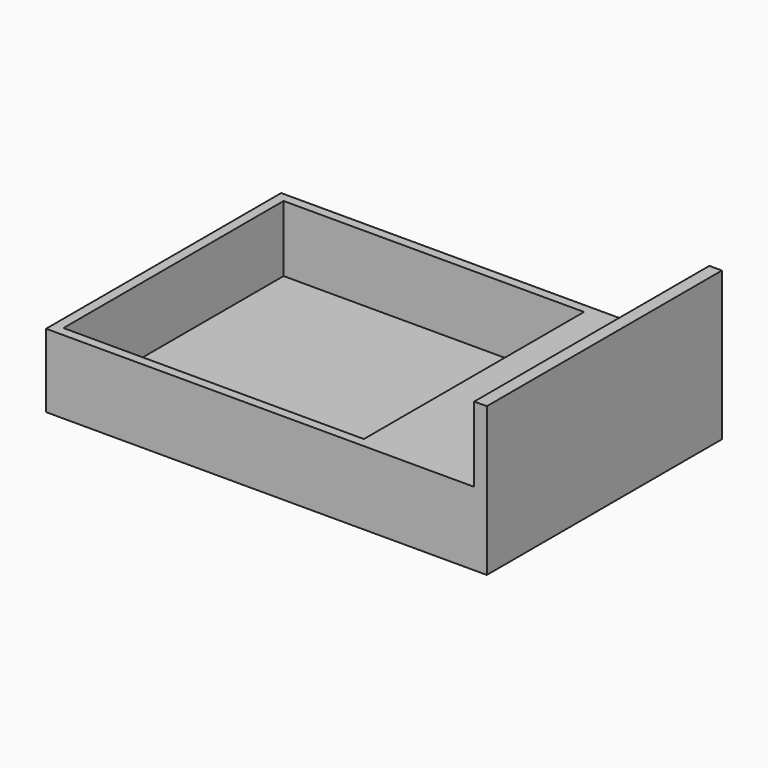
from build123d import *

# Parameters (mm, degrees)
F1_DEPTH = 101.6
F2_W     = 103.886
F2_H     = 95.151683
F3_DEPTH = 22.86


with BuildPart() as f1:
    # F0 (on Front) → F1 (new body)
    with BuildSketch(Plane.XZ):
        Polygon((-55.959374, 25.4), (-55.959374, 0), (96.440626, 0), (96.440626, 51.377271), (92.084546, 51.377271), (92.084546, 25.4), align=None)
    extrude(amount=F1_DEPTH)

    # F2 (on face) → F3 (cut)
    with BuildSketch(Plane.XY.offset(25.4)):
        with Locations((-0.603251, -50.790785)):
            Rectangle(F2_W, F2_H)
    extrude(amount=-F3_DEPTH, mode=Mode.SUBTRACT)


solid = f1.part
